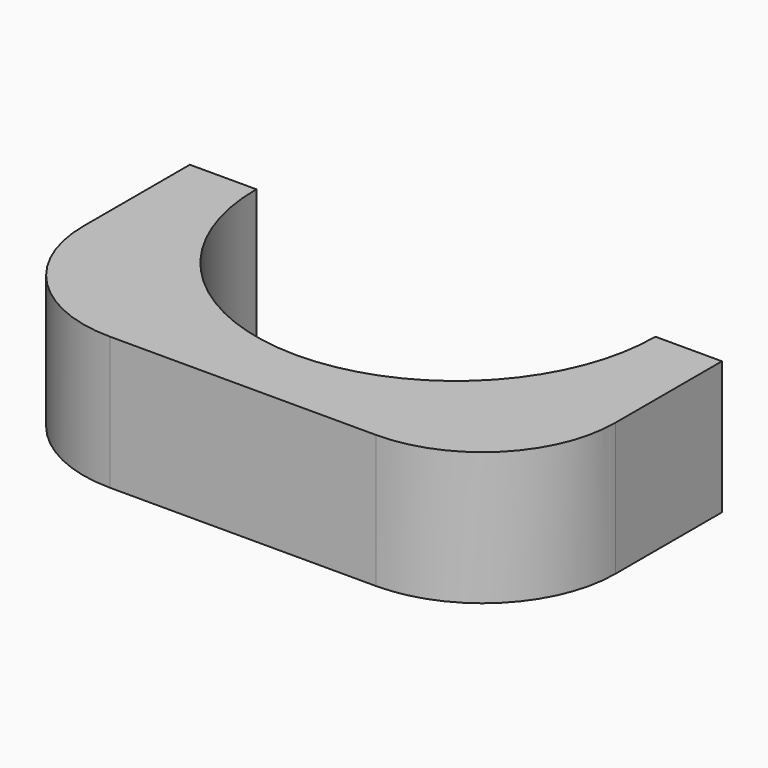
from build123d import *

# Parameters (mm, degrees)
F1_DEPTH = 4
F2_R     = 4
F5_W     = 1
F5_H     = 1.5


with BuildPart() as f1:
    # F0 (on Top) → F1 (new body)
    with BuildSketch(Plane.XY):
        with BuildLine():
            Line((0, 8), (0, 0))
            Line((0, 0), (16, 0))
            Line((16, 0), (16, 8))
            Line((16, 8), (14, 8))
            ThreePointArc((14, 8), (8, 2), (2, 8))
            Line((2, 8), (0, 8))
        make_face()
    extrude(amount=F1_DEPTH)

    # F2
    f2_edges = [f1.edges().sort_by_distance(p)[0] for p in [
        (16, 0, 2),
        (0, 0, 2),
    ]]
    fillet(f2_edges, radius=F2_R)

    # F6: sweep along a path in F4
    with BuildLine(Plane.XY.offset(2)) as f6_path:
        ThreePointArc((1, 8), (8, 1), (15, 8))
    # F5 (on face) → F6 (sweep, cut)
    with BuildSketch(Plane(origin=(0, 8, 0), x_dir=(-1, 0, 0), z_dir=(0, 1, 0))):
        with Locations((-1, 2)):
            Rectangle(F5_W, F5_H)
    sweep(path=f6_path.line, mode=Mode.SUBTRACT)


solid = f1.part
